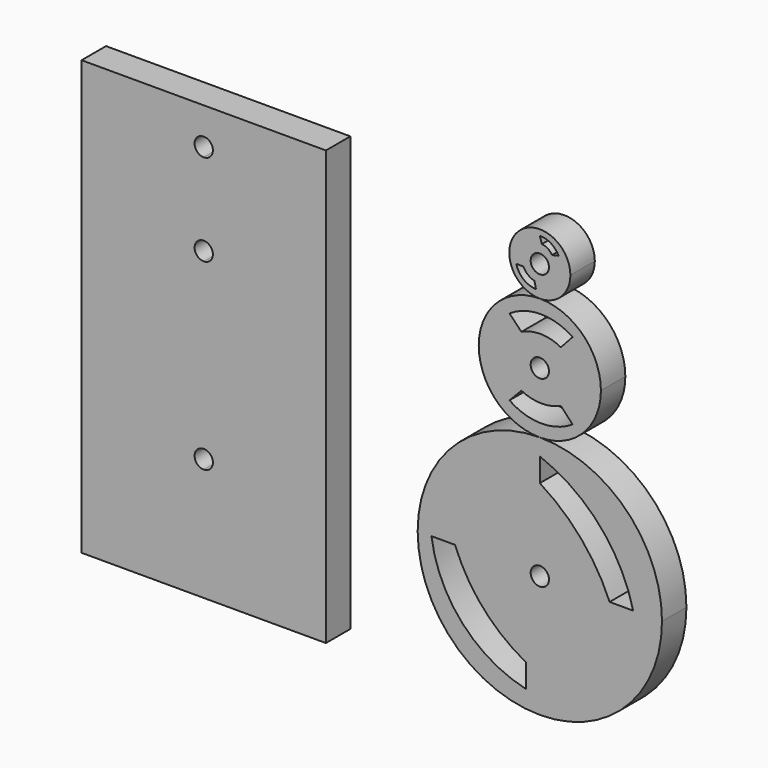
from build123d import *

# Parameters (mm, degrees)
F0_R     = 1.5
F1_DEPTH = 5
F2_DEPTH = 5
F3_DEPTH = 5
F4_DEPTH = 5


with BuildPart() as f1:
    # F0 (on Front) → F1 (new body)
    with BuildSketch(Plane.XZ):
        with BuildLine():
            ThreePointArc((-20, 0), (-14.142136, -14.142136), (0, -20))
            ThreePointArc((0, -20), (14.142136, -14.142136), (20, 0))
            ThreePointArc((20, 0), (14.142136, 14.142136), (0, 20))
            ThreePointArc((0, 20), (-14.142136, 14.142136), (-20, 0))
        make_face()
        with BuildLine():
            ThreePointArc((-2.290069, -16.996988), (-12.67294, -10.914976), (-17.738327, 0))
            Line((-17.738327, 0), (-13.878327, 0))
            ThreePointArc((-13.878327, 0), (-9.276577, -7.620303), (-2.290069, -13.136988))
            Line((-2.290069, -13.136988), (-2.290069, -16.996988))
        make_face(mode=Mode.SUBTRACT)
        Circle(F0_R, mode=Mode.SUBTRACT)
        with BuildLine():
            ThreePointArc((0, 17.265607), (9.771505, 10.517805), (15.2843, 0))
            Line((15.2843, 0), (11.4243, 0))
            ThreePointArc((11.4243, 0), (6.766719, 7.601511), (0, 13.405607))
            Line((0, 13.405607), (0, 17.265607))
        make_face(mode=Mode.SUBTRACT)
    extrude(amount=F1_DEPTH)

    # F0 (on Front) → F2 (join)
    with BuildSketch(Plane.XZ):
        with BuildLine():
            ThreePointArc((0, 40), (-10, 30), (0, 20))
            ThreePointArc((0, 20), (7.071068, 22.928932), (10, 30))
            ThreePointArc((10, 30), (7.071068, 37.071068), (0, 40))
        make_face()
        with BuildLine():
            ThreePointArc((5.36284, 23.60926), (0.181253, 22.089711), (-4.964996, 23.724947))
            Line((-4.964996, 23.724947), (-3.014296, 25.760487))
            ThreePointArc((-3.014296, 25.760487), (0.20403, 24.976245), (3.44163, 25.676675))
            Line((3.44163, 25.676675), (5.36284, 23.60926))
        make_face(mode=Mode.SUBTRACT)
        with Locations((0, 30)):
            Circle(F0_R, mode=Mode.SUBTRACT)
        with BuildLine():
            ThreePointArc((-4.964996, 36.256988), (0.207504, 37.816446), (5.36284, 36.201149))
            Line((5.36284, 36.201149), (3.44163, 34.104005))
            ThreePointArc((3.44163, 34.104005), (0.229253, 34.945193), (-3.014296, 34.233601))
            Line((-3.014296, 34.233601), (-4.964996, 36.256988))
        make_face(mode=Mode.SUBTRACT)
    extrude(amount=F2_DEPTH)

    # F0 (on Front) → F3 (join)
    with BuildSketch(Plane.XZ):
        with BuildLine():
            ThreePointArc((5, 45), (-3.535534, 48.535534), (0, 40))
            ThreePointArc((0, 40), (3.535534, 41.464466), (5, 45))
        make_face()
        with BuildLine():
            ThreePointArc((-0.622532, 41.155434), (-2.67396, 41.921184), (-3.85548, 43.764751))
            Line((-3.85548, 43.764751), (-2.701186, 43.764751))
            ThreePointArc((-2.701186, 43.764751), (-1.963578, 42.816276), (-0.887504, 42.281731))
            Line((-0.887504, 42.281731), (-0.622532, 41.155434))
        make_face(mode=Mode.SUBTRACT)
        with Locations((0, 45)):
            Circle(F0_R, mode=Mode.SUBTRACT)
        with BuildLine():
            ThreePointArc((0, 49.0641), (1.808913, 48.564547), (3.064678, 47.169998))
            Line((3.064678, 47.169998), (1.989979, 46.921063))
            ThreePointArc((1.989979, 46.921063), (1.292659, 47.647084), (0.337574, 47.965165))
            Line((0.337574, 47.965165), (0, 49.0641))
        make_face(mode=Mode.SUBTRACT)
    extrude(amount=F3_DEPTH)


with BuildPart() as f4:
    # F0 (on Front) → F4 (new body)
    with BuildSketch(Plane.XZ):
        Polygon((-35.019196, 49.96676), (-75.019196, 49.96676), (-75.019196, -21.03324), (-55.019196, -21.03324), (-35.019196, -21.03324), align=None)
        with BuildLine():
            ThreePointArc((-53.519196, -1.03324), (-53.958536, -2.093901), (-55.019196, -2.53324))
            ThreePointArc((-55.019196, -2.53324), (-56.519196, -1.03324), (-55.019196, 0.46676))
            ThreePointArc((-55.019196, 0.46676), (-53.958536, 0.02742), (-53.519196, -1.03324))
        make_face(mode=Mode.SUBTRACT)
        with BuildLine():
            ThreePointArc((-53.519196, 28.96676), (-53.958536, 27.906099), (-55.019196, 27.46676))
            ThreePointArc((-55.019196, 27.46676), (-56.519196, 28.96676), (-55.019196, 30.46676))
            ThreePointArc((-55.019196, 30.46676), (-53.958536, 30.02742), (-53.519196, 28.96676))
        make_face(mode=Mode.SUBTRACT)
        with BuildLine():
            ThreePointArc((-53.519196, 43.96676), (-53.958536, 42.906099), (-55.019196, 42.46676))
            ThreePointArc((-55.019196, 42.46676), (-56.079856, 45.02742), (-53.519196, 43.96676))
        make_face(mode=Mode.SUBTRACT)
    extrude(amount=F4_DEPTH)


solid = Compound([f1.part, f4.part])
